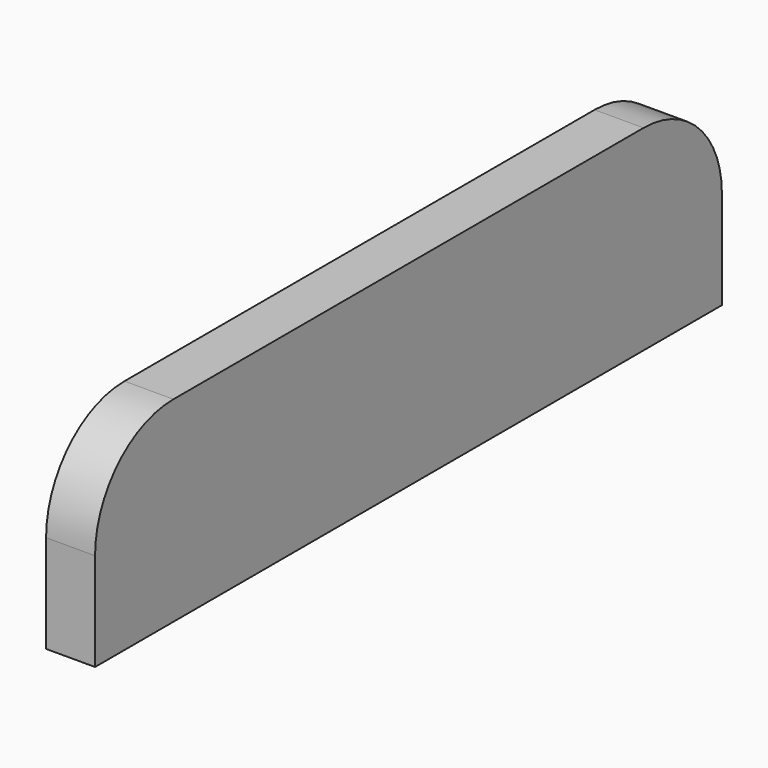
from build123d import *

# Parameters (mm, degrees)
F1_DEPTH = 6.35


with BuildPart() as f1:
    # F0 (on Right) → F1 (new body)
    with BuildSketch(Plane.YZ):
        with BuildLine():
            Line((-41.571199, 12.7), (-41.571199, 0))
            Line((-41.571199, 0), (60.028801, 0))
            Line((60.028801, 0), (60.028801, 12.7))
            ThreePointArc((60.028801, 12.7), (56.309057, 21.680256), (47.328801, 25.4))
            Line((47.328801, 25.4), (-28.871199, 25.4))
            ThreePointArc((-28.871199, 25.4), (-37.851455, 21.680256), (-41.571199, 12.7))
        make_face()
    extrude(amount=F1_DEPTH)


solid = f1.part
